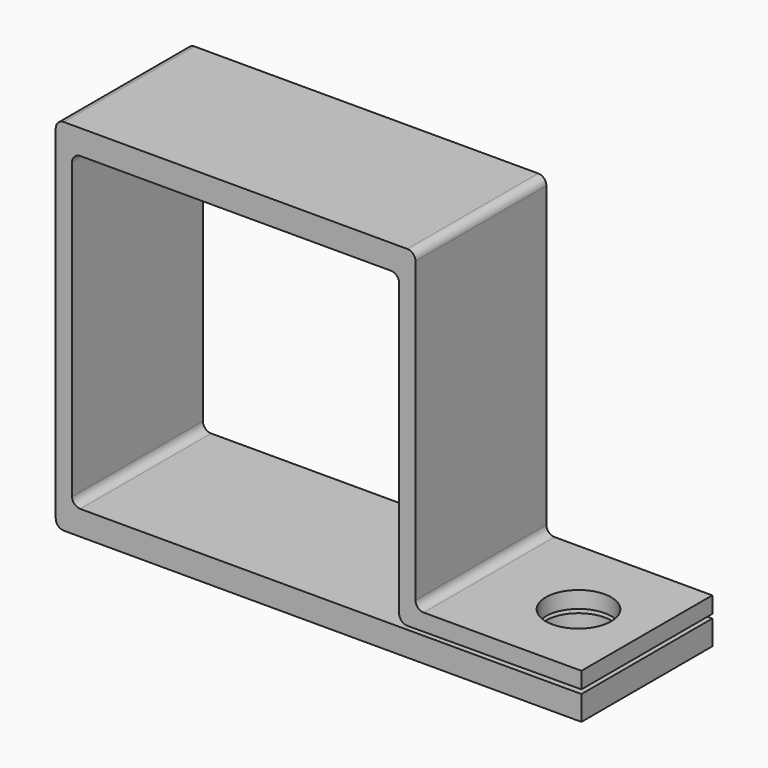
from build123d import *

# Parameters (mm, degrees)
F1_DEPTH = 20
F2_R     = 1
F3_R     = 4
F4_DEPTH = 23.2


with BuildPart() as f1:
    # F0 (on Front) → F1 (new body)
    with BuildSketch(Plane.XZ):
        Polygon((-44, 0), (20.290818, 0), (20.290818, 3), (-2, 3), (-42, 3), (-42, 41), (-2, 41), (-2, 3.422746), (20.290818, 3.5), (20.290818, 5.5), (0, 5.5), (0, 44), (-44, 44), align=None)
    extrude(amount=F1_DEPTH)

    # F2
    f2_edges = [f1.edges().sort_by_distance(p)[0] for p in [
        (-2, -10, 41),
        (-42, -10, 41),
        (-42, -10, 3),
        (0, -10, 5.5),
        (0, -10, 44),
        (-44, -10, 44),
        (-44, -10, 0),
        (-2, -10, 3.422746),
    ]]
    fillet(f2_edges, radius=F2_R)

    # F3 (on Top) → F4 (cut)
    with BuildSketch(Plane.XY):
        with Locations((12.122351, -10.240848)):
            Circle(F3_R)
    extrude(amount=F4_DEPTH, mode=Mode.SUBTRACT)


solid = f1.part
